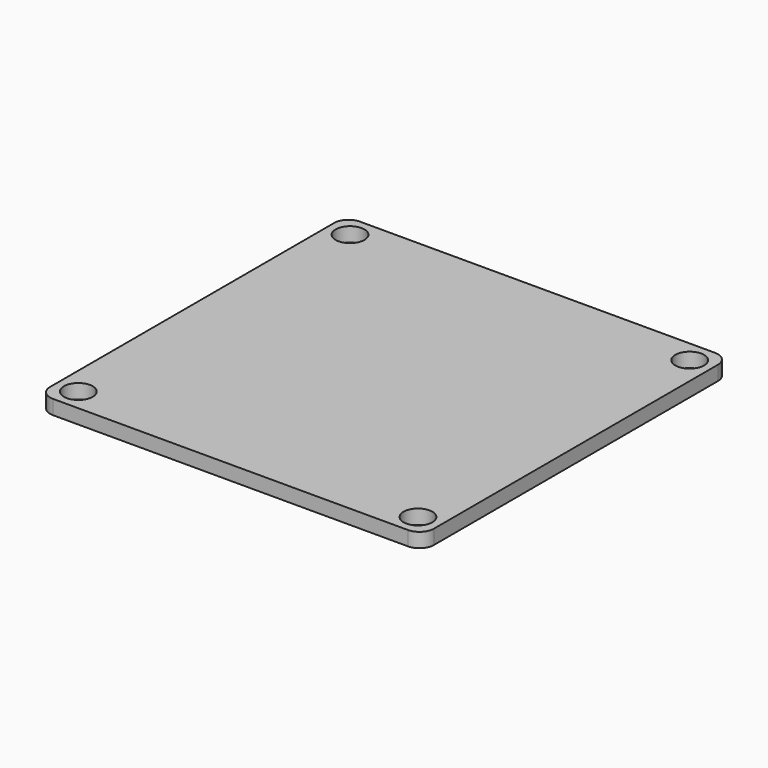
from build123d import *

# Parameters (mm, degrees)
F0_R     = 1.5
F1_DEPTH = 1.5


with BuildPart() as f1:
    # F0 (on Top) → F1 (new body)
    with BuildSketch(Plane.XY):
        with BuildLine():
            ThreePointArc((-20, -18.5), (-19.56066, -19.56066), (-18.5, -20))
            Line((-18.5, -20), (18.5, -20))
            ThreePointArc((18.5, -20), (19.56066, -19.56066), (20, -18.5))
            Line((20, -18.5), (20, 18.5))
            ThreePointArc((20, 18.5), (19.56066, 19.56066), (18.5, 20))
            Line((18.5, 20), (-18.5, 20))
            ThreePointArc((-18.5, 20), (-19.56066, 19.56066), (-20, 18.5))
            Line((-20, 18.5), (-20, -18.5))
        make_face()
        with Locations((-17.7, -17.7)):
            Circle(F0_R, mode=Mode.SUBTRACT)
        with Locations((17.7, -17.7)):
            Circle(F0_R, mode=Mode.SUBTRACT)
        with Locations((-17.7, 17.7)):
            Circle(F0_R, mode=Mode.SUBTRACT)
        with Locations((17.7, 17.7)):
            Circle(F0_R, mode=Mode.SUBTRACT)
        with BuildLine():
            ThreePointArc((-20, -18.5), (-19.56066, -19.56066), (-18.5, -20))
            Line((-18.5, -20), (18.5, -20))
            ThreePointArc((18.5, -20), (19.56066, -19.56066), (20, -18.5))
            Line((20, -18.5), (20, 18.5))
            ThreePointArc((20, 18.5), (19.56066, 19.56066), (18.5, 20))
            Line((18.5, 20), (-18.5, 20))
            ThreePointArc((-18.5, 20), (-19.56066, 19.56066), (-20, 18.5))
            Line((-20, 18.5), (-20, -18.5))
        make_face()
        with Locations((-17.7, -17.7)):
            Circle(F0_R, mode=Mode.SUBTRACT)
        with Locations((17.7, -17.7)):
            Circle(F0_R, mode=Mode.SUBTRACT)
        with Locations((-17.7, 17.7)):
            Circle(F0_R, mode=Mode.SUBTRACT)
        with Locations((17.7, 17.7)):
            Circle(F0_R, mode=Mode.SUBTRACT)
    extrude(amount=F1_DEPTH)


solid = f1.part
